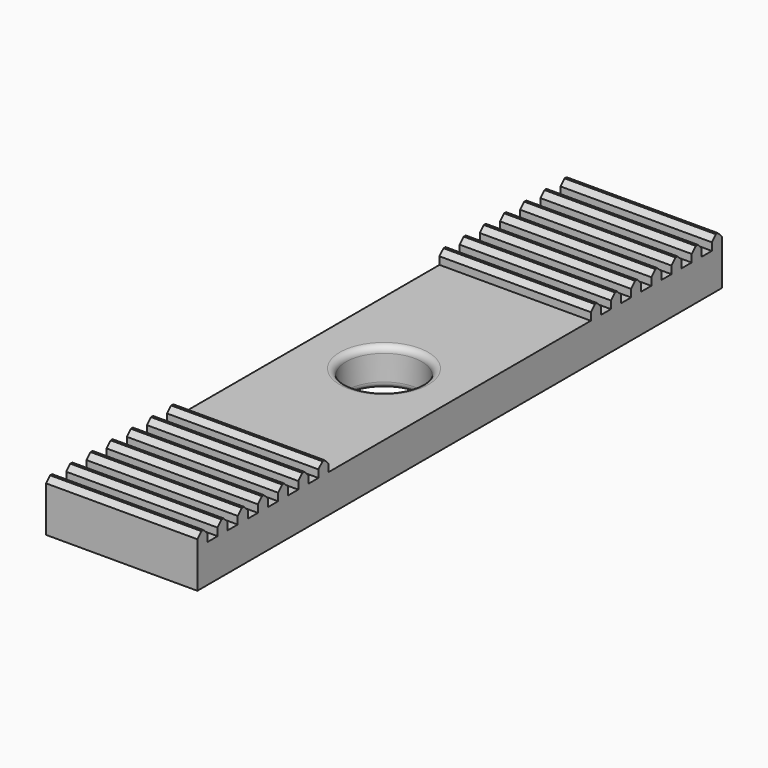
from build123d import *

# Parameters (mm, degrees)
PAD_DEPTH    = 6
SKETCH001_R  = 1.5
HOLE_DEPTH   = 25
FILLET_R     = 0.25
CHAMFER_SIZE = 0.2


with BuildPart() as part:
    # Sketch → Pad (new body)
    with BuildSketch(Plane.YZ):
        Polygon((-13, 0.5), (-13, -1.5), (13, -1.5), (13, 0.5), (12.5, 0.5), (12.5, 2e-06), (12, 2e-06), (12, 0.5), (11.5, 0.5), (11.5, 0), (11, 0), (11, 0.5), (10.5, 0.5), (10.5, 0), (10, 0), (10, 0.5), (9.5, 0.5), (9.5, 0), (9, 0), (9, 0.5), (8.5, 0.5), (8.5, 0), (8, 0), (8, 0.5), (7.5, 0.5), (7.5, 0), (7, 0), (7, 0.5), (6.5, 0.5), (6.5, 0), (0, 0), (-6.5, 0), (-6.5, 0.5), (-7, 0.5), (-7, 0), (-7.5, 0), (-7.5, 0.5), (-8, 0.5), (-8, 0), (-8.5, 0), (-8.5, 0.5), (-9, 0.5), (-9, 0), (-9.5, 0), (-9.5, 0.5), (-10, 0.5), (-10, 0), (-10.5, 0), (-10.5, 0.5), (-11, 0.5), (-11, 0), (-11.5, 0), (-11.5, 0.5), (-12, 0.5), (-12, 0), (-12.5, 0), (-12.5, 0.5), align=None)
    extrude(amount=PAD_DEPTH)

    # Sketch001 (on Face58 of Pad) → Hole (cut)
    with BuildSketch(Plane(origin=(0, 0, 0), x_dir=(0, -1, 0), z_dir=(0, 0, 1))):
        with Locations((0, 3)):
            Circle(SKETCH001_R)
    extrude(amount=-HOLE_DEPTH, mode=Mode.SUBTRACT)

    # Fillet
    fillet_edges = [part.edges().sort_by_distance(p)[0] for p in [
        (3, -1.5, 0),
        (3, -1.5, -1.5),
    ]]
    fillet(fillet_edges, radius=FILLET_R)

    # Chamfer
    chamfer_edges = [part.edges().sort_by_distance(p)[0] for p in [
        (3, -13, 0.5),
        (3, -12, 0.5),
        (3, -12.5, 0.5),
        (3, -11.5, 0.5),
        (3, -11, 0.5),
        (3, -10.5, 0.5),
        (3, -10, 0.5),
        (3, -9.5, 0.5),
        (3, -9, 0.5),
        (3, -8.5, 0.5),
        (3, -8, 0.5),
        (3, -7.5, 0.5),
        (3, -7, 0.5),
        (3, -6.5, 0.5),
        (3, 6.5, 0.5),
        (3, 7, 0.5),
        (3, 7.5, 0.5),
        (3, 8, 0.5),
        (3, 8.5, 0.5),
        (3, 9, 0.5),
        (3, 9.5, 0.5),
        (3, 10, 0.5),
        (3, 10.5, 0.5),
        (3, 11, 0.5),
        (3, 11.5, 0.5),
        (3, 12, 0.5),
        (3, 12.5, 0.5),
        (3, 13, 0.5),
    ]]
    chamfer(chamfer_edges, length=CHAMFER_SIZE)


solid = part.part
